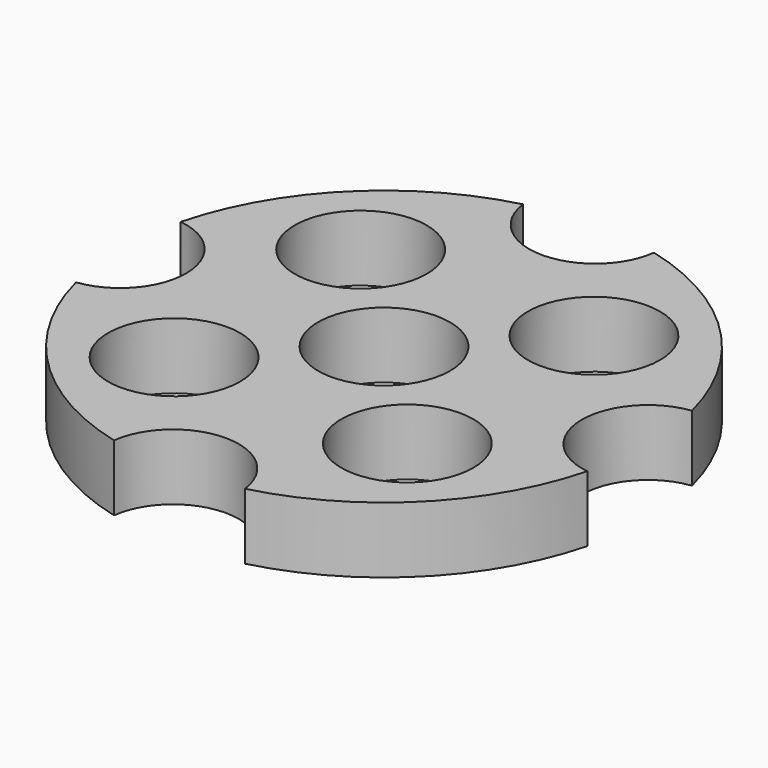
from build123d import *

# Parameters (mm, degrees)
F0_R     = 6.35
F1_DEPTH = 6.35


with BuildPart() as f1:
    # F0 (on Top) → F1 (new body)
    with BuildSketch(Plane.XY):
        with BuildLine():
            ThreePointArc((6.300195, 24.60625), (0, 19.05), (-6.300195, 24.60625))
            ThreePointArc((-6.300195, 24.60625), (-17.960512, 17.960512), (-24.60625, 6.300195))
            ThreePointArc((-24.60625, 6.300195), (-19.05, 0), (-24.60625, -6.300195))
            ThreePointArc((-24.60625, -6.300195), (-17.960512, -17.960512), (-6.300195, -24.60625))
            ThreePointArc((-6.300195, -24.60625), (0, -19.05), (6.300195, -24.60625))
            ThreePointArc((6.300195, -24.60625), (17.960512, -17.960512), (24.60625, -6.300195))
            ThreePointArc((24.60625, -6.300195), (19.05, 0), (24.60625, 6.300195))
            ThreePointArc((24.60625, 6.300195), (17.960512, 17.960512), (6.300195, 24.60625))
        make_face()
        with Locations((-11.22532, -11.22532)):
            Circle(F0_R, mode=Mode.SUBTRACT)
        with Locations((11.22532, -11.22532)):
            Circle(F0_R, mode=Mode.SUBTRACT)
        with Locations((-11.22532, 11.22532)):
            Circle(F0_R, mode=Mode.SUBTRACT)
        Circle(F0_R, mode=Mode.SUBTRACT)
        with Locations((11.22532, 11.22532)):
            Circle(F0_R, mode=Mode.SUBTRACT)
    extrude(amount=F1_DEPTH)


solid = f1.part
